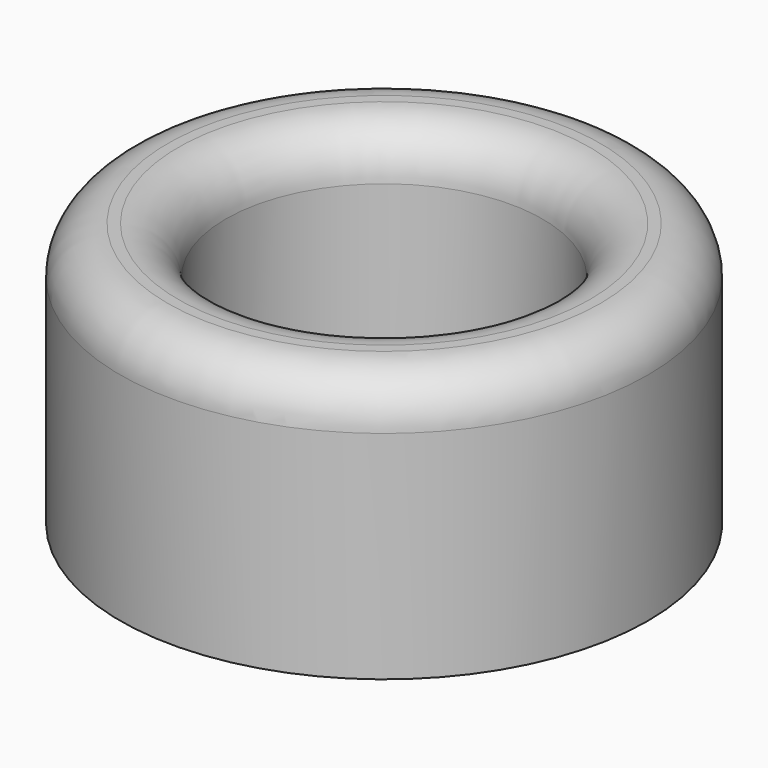
from build123d import *

# Parameters (mm, degrees)
CYLINDER002_R     = 6
CYLINDER002_DEPTH = 8
CYLINDER001_R     = 3.1
CYLINDER001_DEPTH = 10
CYLINDER_R        = 10
CYLINDER_DEPTH    = 10
FILLET_R          = 1.8


with BuildPart() as cylinder002:
    # Cylinder002 → Cylinder002 (new body)
    with BuildSketch(Plane.XY.offset(2)):
        Circle(CYLINDER002_R)
    extrude(amount=CYLINDER002_DEPTH)


with BuildPart() as cylinder001:
    # Cylinder001 → Cylinder001 (new body)
    with BuildSketch(Plane.XY):
        Circle(CYLINDER001_R)
    extrude(amount=CYLINDER001_DEPTH)


with BuildPart() as fillet_body:
    # Cylinder → Cylinder (new body)
    with BuildSketch(Plane.XY):
        Circle(CYLINDER_R)
    extrude(amount=CYLINDER_DEPTH)

    # Cut: cut Cylinder001
    add(cylinder001.part, mode=Mode.SUBTRACT)

    # Cut001: cut Cylinder002
    add(cylinder002.part, mode=Mode.SUBTRACT)

    # Fillet
    fillet_edges = [fillet_body.edges().sort_by_distance(p)[0] for p in [
        (-10, 0, 10),
        (-6, 0, 10),
    ]]
    fillet(fillet_edges, radius=FILLET_R)


solid = fillet_body.part
